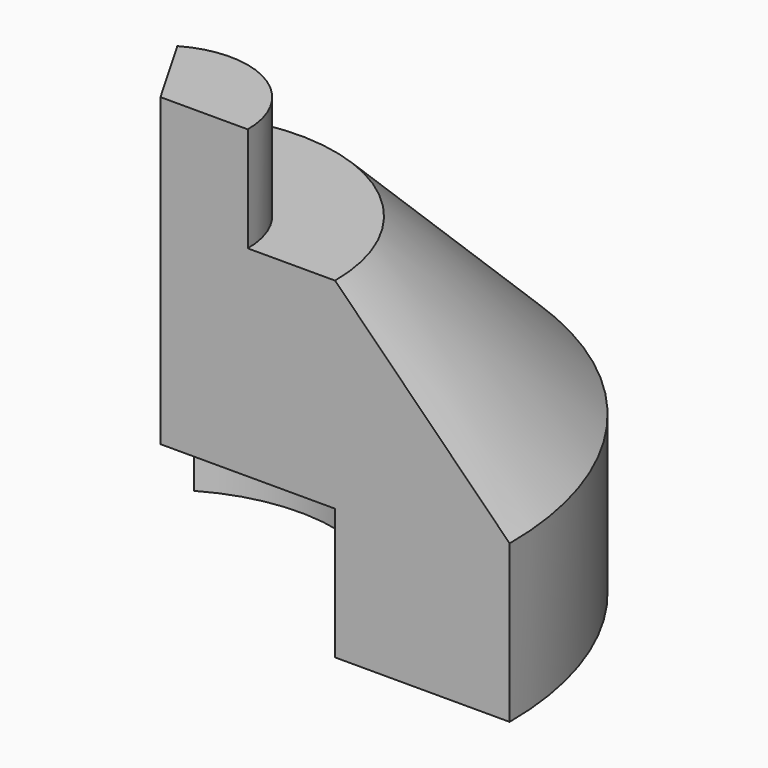
from build123d import *

# Parameters (mm, degrees)
F1_ANGLE = 120


with BuildPart() as f1:
    # F0 (on Front) → F1 (revolve)
    with BuildSketch(Plane.XZ):
        Polygon((10, 35), (0, 35), (0, 0), (20, 0), (20, -15), (40, -15), (40, 3), (20, 23), (10, 23), align=None)
    revolve(axis=Axis((0, 0, 17.5), (0, 0, 1)), revolution_arc=F1_ANGLE)


solid = f1.part
